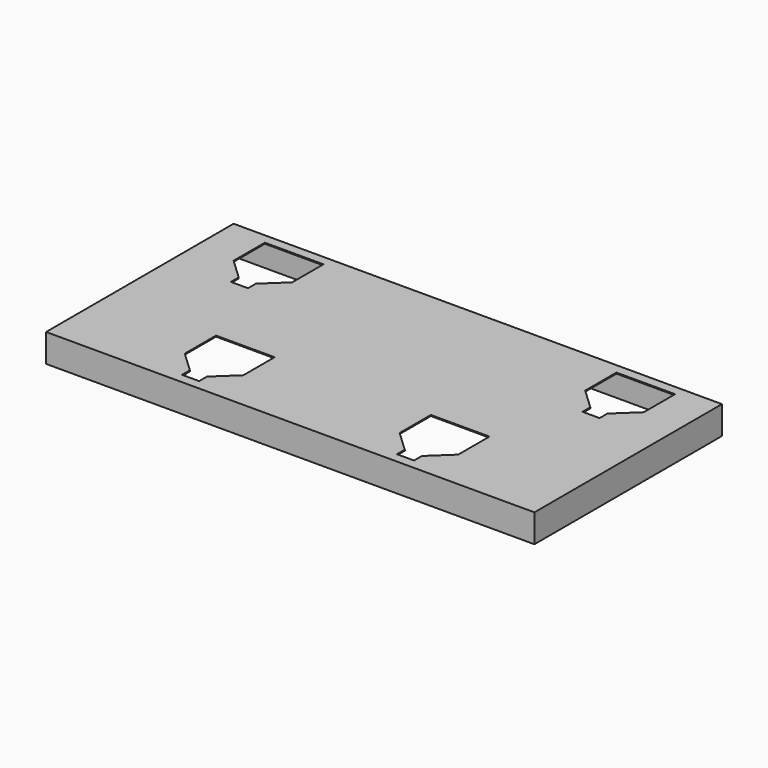
from build123d import *

# Parameters (mm, degrees)
F0_W     = 1270
F0_H     = 609.6
F1_DEPTH = 73.152
F2_T     = -2.667
F3_W     = 152.4
F3_H     = 101.6
F3_W_2   = 44.45
F3_H_2   = 25.4
F4_DEPTH = 73.153


with BuildPart() as f1:
    # F0 (on Top) → F1 (new body)
    with BuildSketch(Plane.XY):
        Rectangle(F0_W, F0_H)
    extrude(amount=F1_DEPTH)

    # F2
    f2_openings = [f1.faces().sort_by_distance(p)[0] for p in [
        (0, 0, 0),
    ]]
    offset(amount=F2_T, openings=f2_openings)

    # F3 (on face) → F4 (cut, through all)
    with BuildSketch(Plane.XY.offset(73.152)):
        with Locations((-457.2, 228.6)):
            Rectangle(F3_W, F3_H)
        Polygon((-434.975, 127), (-381, 177.8), (-533.4, 177.8), (-479.425, 127), align=None)
        with Locations((-457.2, 114.3)):
            Rectangle(F3_W_2, F3_H_2)
        with Locations((-279.4, -152.4)):
            Rectangle(F3_W, F3_H)
        Polygon((-257.175, -254), (-203.2, -203.2), (-355.6, -203.2), (-301.625, -254), align=None)
        with Locations((-279.4, -266.7)):
            Rectangle(F3_W_2, F3_H_2)
        with Locations((279.4, -152.4)):
            Rectangle(F3_W, F3_H)
        Polygon((301.625, -254), (355.6, -203.2), (203.2, -203.2), (257.175, -254), align=None)
        with Locations((279.4, -266.7)):
            Rectangle(F3_W_2, F3_H_2)
        with Locations((457.2, 228.6)):
            Rectangle(F3_W, F3_H)
        Polygon((479.425, 127), (533.4, 177.8), (381, 177.8), (434.975, 127), align=None)
        with Locations((457.2, 114.3)):
            Rectangle(F3_W_2, F3_H_2)
    extrude(amount=-F4_DEPTH, mode=Mode.SUBTRACT)


solid = f1.part
